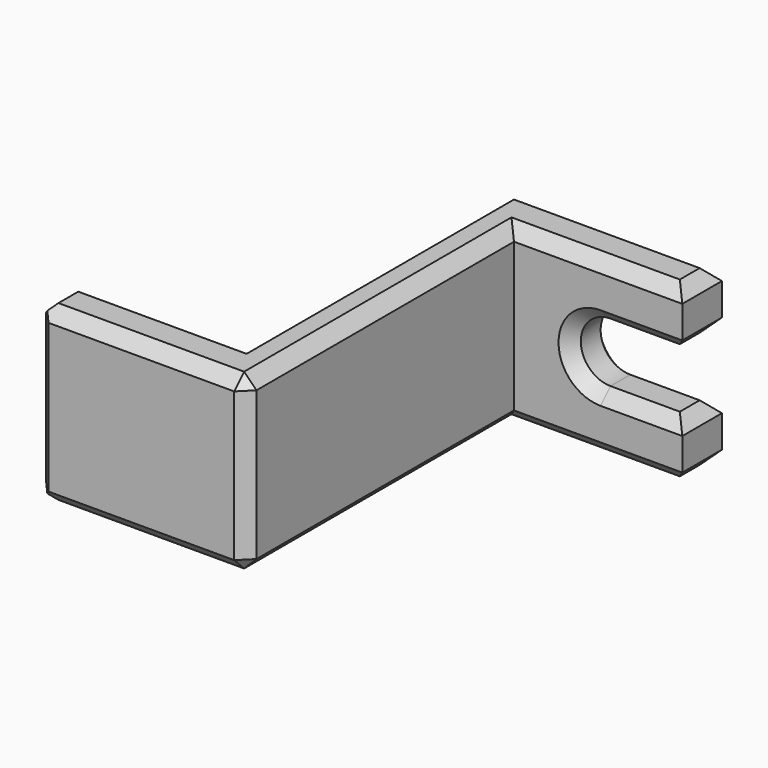
from build123d import *

# Parameters (mm, degrees)
F0_W     = 17
F0_H     = 115
F1_DEPTH = 70
F2_SIZE  = 5
F4_DEPTH = 20.001
F5_SIZE  = 5
F6_SIZE  = 5


with BuildPart() as f1:
    # F0 (on Top) → F1 (new body)
    with BuildSketch(Plane.XY):
        Rectangle(F0_W, F0_H)
        Polygon((-8.5, 57.5), (8.5, 57.5), (76.5, 57.5), (76.5, 77.5), (-8.5, 77.5), align=None)
        Polygon((8.5, -77.5), (8.5, -57.5), (-8.5, -57.5), (-76.5, -57.5), (-76.5, -77.5), align=None)
    extrude(amount=F1_DEPTH)

    # F2
    f2_edges = [f1.edges().sort_by_distance(p)[0] for p in [
        (-8.5, 77.5, 35),
        (-8.5, 10, 70),
        (34, 77.5, 70),
        (-42.5, -57.5, 70),
        (8.5, -10, 70),
        (-34, -77.5, 70),
        (42.5, 57.5, 70),
        (34, 77.5, 0),
        (42.5, 57.5, 0),
        (8.5, -10, 0),
        (-34, -77.5, 0),
        (8.5, -77.5, 35),
        (-42.5, -57.5, 0),
        (-8.5, 10, 0),
    ]]
    chamfer(f2_edges, length=F2_SIZE)

    # F3 (on face) → F4 (cut, through all)
    with BuildSketch(Plane.XZ.offset(-57.5)):
        with BuildLine():
            Line((43.5, 23), (43.5, 47))
            ThreePointArc((43.5, 47), (31.5, 35), (43.5, 23))
        make_face()
        with BuildLine():
            ThreePointArc((43.5, 23), (51.9852813742, 26.5147186258), (55.5, 35))
            ThreePointArc((55.5, 35), (51.9852813742, 43.4852813742), (43.5, 47))
            Line((43.5, 47), (43.5, 23))
        make_face()
        with BuildLine():
            ThreePointArc((43.5, 47), (51.9852813742, 43.4852813742), (55.5, 35))
            ThreePointArc((55.5, 35), (51.9852813742, 26.5147186258), (43.5, 23))
            Line((43.5, 23), (76.5, 23))
            Line((76.5, 23), (76.5, 47))
            Line((76.5, 47), (43.5, 47))
        make_face()
    extrude(amount=-F4_DEPTH, mode=Mode.SUBTRACT)

    # F5
    f5_edges = [f1.edges().sort_by_distance(p)[0] for p in [
        (31.5, 57.5, 35),
        (31.5, 77.5, 35),
        (76.5, 67.5, 47),
        (76.5, 67.5, 23),
    ]]
    chamfer(f5_edges, length=F5_SIZE)

    # F6 (call 1 of 6: OpenCascade refuses the feature's edges together)
    f6_edges = [f1.edges().sort_by_distance(p)[0] for p in [
        (76.5, 67.5, 70),
    ]]
    chamfer(f6_edges, length=F6_SIZE)

    # F6#2 (call 2 of 6)
    f6_2_edges = [f1.edges().sort_by_distance(p)[0] for p in [
        (76.5, 67.5, 0),
    ]]
    chamfer(f6_2_edges, length=F6_SIZE)

    # F6#3 (call 3 of 6)
    f6_3_edges = [f1.edges().sort_by_distance(p)[0] for p in [
        (-76.5, -57.5, 35),
    ]]
    chamfer(f6_3_edges, length=F6_SIZE)

    # F6#4 (call 4 of 6)
    f6_4_edges = [f1.edges().sort_by_distance(p)[0] for p in [
        (-76.5, -77.5, 35),
    ]]
    chamfer(f6_4_edges, length=F6_SIZE)

    # F6#5 (call 5 of 6)
    f6_5_edges = [f1.edges().sort_by_distance(p)[0] for p in [
        (-76.5, -67.5, 0),
    ]]
    chamfer(f6_5_edges, length=F6_SIZE)

    # F6#6 (call 6 of 6)
    f6_6_edges = [f1.edges().sort_by_distance(p)[0] for p in [
        (-76.5, -67.5, 70),
    ]]
    chamfer(f6_6_edges, length=F6_SIZE)


solid = f1.part
